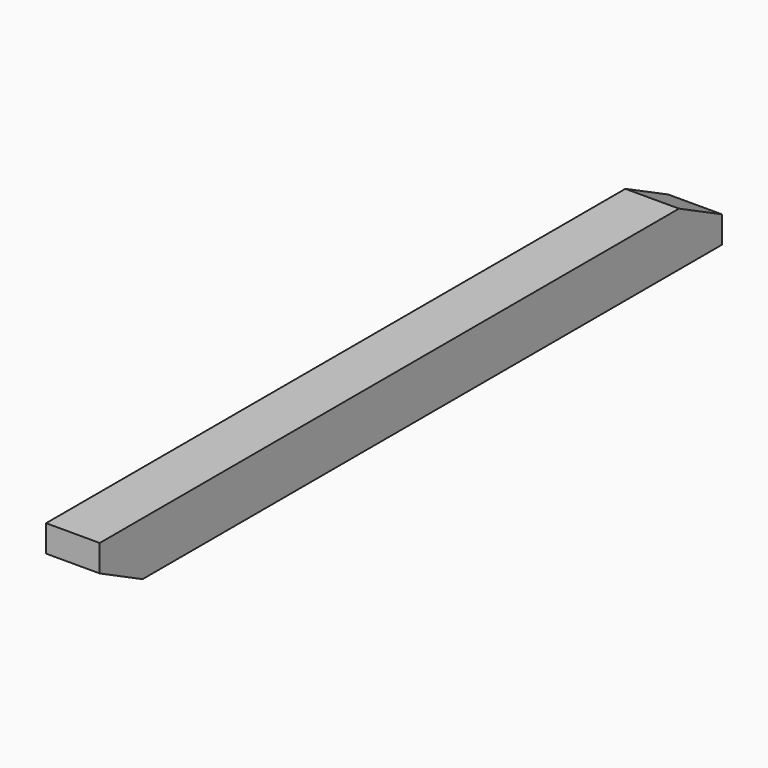
from build123d import *

# Parameters (mm, degrees)
F0_W     = 5.0811059773
F0_H     = 2.5395986158
F1_DEPTH = 5.08
F2_DEPTH = 5.08


with BuildPart() as f1:
    # F0 (on Right) → F1 (new body)
    with BuildSketch(Plane.YZ):
        Polygon((-21.3646243792, 6.4907099586), (-23.904222995, 3.9511113428), (39.5922400057, 3.9511113428), (39.5922400057, 6.4907099586), (39.5922400057, 9.0303085744), (-23.904222995, 9.0303085744), align=None)
        Polygon((-26.4438216109, 6.4907099586), (-23.904222995, 3.9511113428), (-23.904222995, 6.4907099586), align=None)
        Polygon((-28.9752762765, 6.4907099586), (-23.904222995, 3.9511113428), (-26.4438216109, 6.4907099586), align=None)
        Polygon((-23.904222995, 6.4907099586), (-23.904222995, 3.9511113428), (-21.3646243792, 6.4907099586), (-23.904222995, 9.0303085744), align=None)
        with Locations((42.1327929944, 5.2209106507)):
            Rectangle(F0_W, F0_H)
        Polygon((-26.4438216109, 6.4907099586), (-23.904222995, 6.4907099586), (-23.904222995, 9.0303085744), align=None)
        Polygon((-28.9752762765, 6.4907099586), (-26.4438216109, 6.4907099586), (-23.904222995, 9.0303085744), (-28.9752762765, 9.0303085744), align=None)
        Polygon((39.5922400057, 9.0303085744), (39.5922400057, 6.4907099586), (44.673345983, 6.4907099586), align=None)
    extrude(amount=F1_DEPTH)

    # F0 (on Right) → F2 (join)
    with BuildSketch(Plane.YZ):
        Polygon((-21.3646243792, 6.4907099586), (-23.904222995, 3.9511113428), (39.5922400057, 3.9511113428), (39.5922400057, 6.4907099586), (39.5922400057, 9.0303085744), (-23.904222995, 9.0303085744), align=None)
        Polygon((-26.4438216109, 6.4907099586), (-23.904222995, 3.9511113428), (-23.904222995, 6.4907099586), align=None)
        Polygon((-28.9752762765, 6.4907099586), (-23.904222995, 3.9511113428), (-26.4438216109, 6.4907099586), align=None)
        Polygon((-23.904222995, 6.4907099586), (-23.904222995, 3.9511113428), (-21.3646243792, 6.4907099586), (-23.904222995, 9.0303085744), align=None)
        with Locations((42.1327929944, 5.2209106507)):
            Rectangle(F0_W, F0_H)
        Polygon((-26.4438216109, 6.4907099586), (-23.904222995, 6.4907099586), (-23.904222995, 9.0303085744), align=None)
        Polygon((-28.9752762765, 6.4907099586), (-26.4438216109, 6.4907099586), (-23.904222995, 9.0303085744), (-28.9752762765, 9.0303085744), align=None)
        Polygon((39.5922400057, 9.0303085744), (39.5922400057, 6.4907099586), (44.673345983, 6.4907099586), align=None)
    extrude(amount=F2_DEPTH)


solid = f1.part
